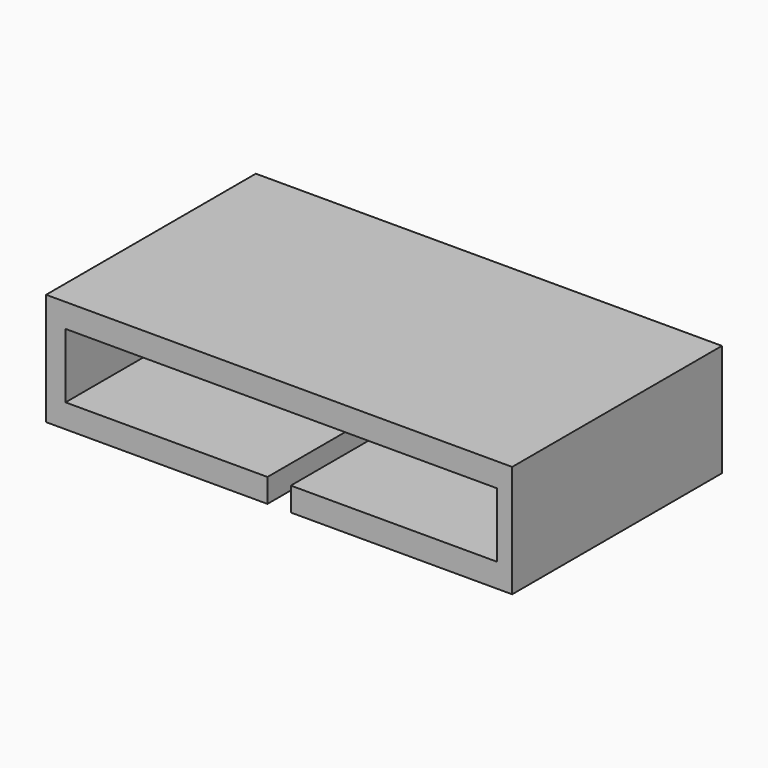
from build123d import *

# Parameters (mm, degrees)
F0_W      = 80
F0_H      = 19.25
F0_W_2    = 74.05
F0_H_2    = 11.1
F1_DEPTH  = 45
F0_W_3    = 9.63
F0_H_3    = 6
F2_DEPTH  = 14
F0_R      = 2.745
F3_DEPTH  = 8
F5_W      = 4
F5_H      = 29.0582341515
F6_DEPTH  = 3.07077
F5_H_2    = 15.9417658485
F7_DEPTH  = 8.2825263962
F11_R     = 3.5
F11_R_2   = 1.85
F12_DEPTH = 2
F13_DEPTH = 25


with BuildPart() as f1:
    # F0 (on Front) → F1 (new body)
    with BuildSketch(Plane.XZ):
        with Locations((-22.1932545304, 37.9297346771)):
            Rectangle(F0_W, F0_H)
        with Locations((-21.8290186286, 37.9297346771)):
            Rectangle(F0_W_2, F0_H_2, mode=Mode.SUBTRACT)
    extrude(amount=F1_DEPTH)

    # F0 (on Front) → F2 (join)
    with BuildSketch(Plane.XZ):
        with Locations((-21.8290186286, 37.9297346771)):
            Rectangle(F0_W_2, F0_H_2)
        with Locations((-21.8290186286, 37.9297346771)):
            Rectangle(F0_W_3, F0_H_3, mode=Mode.SUBTRACT)
    extrude(amount=F2_DEPTH)

    # F0 (on Front) → F3 (join)
    with BuildSketch(Plane.XZ):
        with Locations((-21.8290186286, 37.9297346771)):
            Rectangle(F0_W_3, F0_H_3)
        with Locations((-21.8290186286, 37.9297346771)):
            Circle(F0_R, mode=Mode.SUBTRACT)
    extrude(amount=F3_DEPTH)

    # F5 (on offset) → F6 (cut)
    with BuildSketch(Plane(origin=(0, 0, 28.3047346771), x_dir=(1, 0, 0), z_dir=(0, 0, -1))):
        with Locations((-22.1932545304, 30.4708829243)):
            Rectangle(F5_W, F5_H)
    extrude(amount=-F6_DEPTH, mode=Mode.SUBTRACT)

    # F5 (on offset) → F7 (cut)
    with BuildSketch(Plane(origin=(0, 0, 28.3047346771), x_dir=(1, 0, 0), z_dir=(0, 0, -1))):
        with Locations((-22.1932545304, 30.4708829243)):
            Rectangle(F5_W, F5_H)
        with Locations((-22.1932545304, 7.9708829243)):
            Rectangle(F5_W, F5_H_2)
    extrude(amount=-F7_DEPTH, mode=Mode.SUBTRACT)

    # F11 (on offset) → F12 (cut)
    with BuildSketch(Plane.XZ.offset(14)):
        with Locations((-50.5927884306, 38.0425482406)):
            Circle(F11_R)
        with Locations((-50.5927884306, 38.0425482406)):
            Circle(F11_R_2, mode=Mode.SUBTRACT)
        with Locations((0, 38.4429908707)):
            Circle(F11_R)
        with Locations((0, 38.4429908707)):
            Circle(F11_R_2, mode=Mode.SUBTRACT)
    extrude(amount=-F12_DEPTH, mode=Mode.SUBTRACT)

    # F13 (cut): faces of the model
    f13_faces = [f1.faces().sort_by_distance(p)[0] for p in [
        (0, -14, 38.4429908707),
        (-50.5927884306, -14, 38.0425482406),
    ]]
    extrude(f13_faces, amount=-F13_DEPTH, mode=Mode.SUBTRACT)


solid = f1.part
